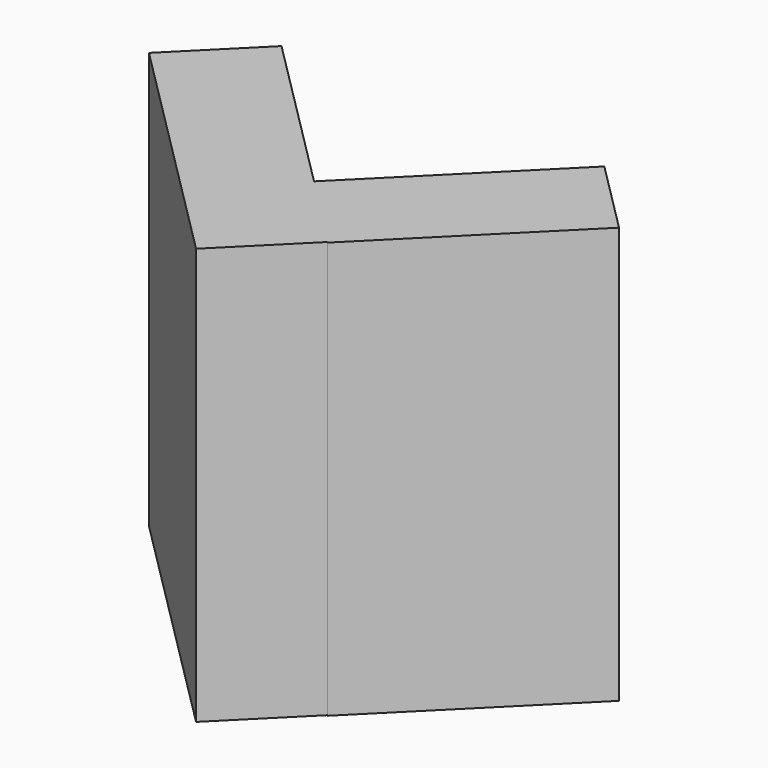
from build123d import *

# Parameters (mm, degrees)
BOX001_W               = 0.05
BOX001_H               = 0.11
BOX001_DEPTH           = 0.2
BOX001_PLACEMENT_ANGLE = -45
BOX_W                  = 0.05
BOX_H                  = 0.16
BOX_DEPTH              = 0.2
BOX_PLACEMENT_ANGLE    = 45


with BuildPart() as kub001:
    # Box001 → Box001 (new body)
    with BuildSketch(Plane.XY):
        with Locations((0.025, 0.055)):
            Rectangle(BOX001_W, BOX001_H)
    extrude(amount=BOX001_DEPTH)


with BuildPart() as kub001_1:
    # Box001 placement: moved
    add(kub001.part.moved(Location((0, 1.97, 0))).rotate(Axis((0, 1.97, 0), (0, 0, 1)), BOX001_PLACEMENT_ANGLE))


with BuildPart() as fusion:
    # Box → Box (new body)
    with BuildSketch(Plane.XY):
        with Locations((0.025, 0.08)):
            Rectangle(BOX_W, BOX_H)
    extrude(amount=BOX_DEPTH)


with BuildPart() as fusion_1:
    # Box placement: moved
    add(fusion.part.moved(Location((0, 1.9, 0))).rotate(Axis((0, 1.9, 0), (0, 0, 1)), BOX_PLACEMENT_ANGLE))

    # Fusion: union Kub001
    add(kub001_1.part)


solid = fusion_1.part
